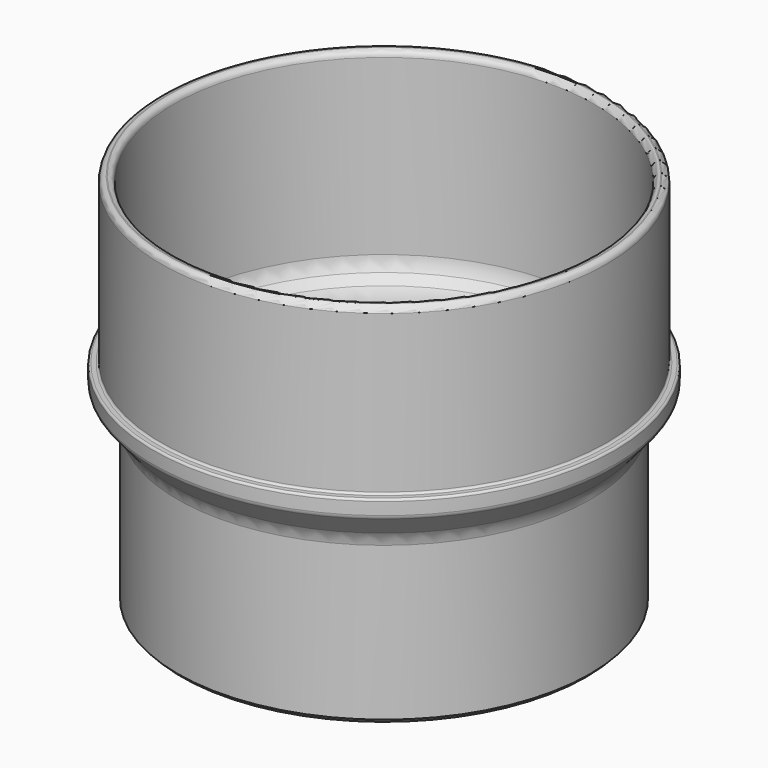
from build123d import *

# Parameters (mm, degrees)
F2_R    = 1.4
F3_R    = 0.5
F4_R    = 5
F5_SIZE = 1


with BuildPart() as f1:
    # F0 (on Front) → F1 (revolve)
    with BuildSketch(Plane.XZ):
        Polygon((47, 0), (50, 0), (50, 40), (56, 47.150522), (56, 51.150522), (54, 51.150522), (54, 91.150522), (51, 91.150522), (51, 45.858925), (47, 41.091911), align=None)
    revolve(axis=Axis((0, 0, 46.684548), (0, 0, 1)))

    # F2
    f2_edges = [f1.edges().sort_by_distance(p)[0] for p in [
        (-54, 0, 91.150522),
        (-51, 0, 91.150522),
        (-56, 0, 47.150522),
    ]]
    fillet(f2_edges, radius=F2_R)

    # F3
    f3_edges = [f1.edges().sort_by_distance(p)[0] for p in [
        (-56, 0, 51.150522),
        (-54, 0, 51.150522),
    ]]
    fillet(f3_edges, radius=F3_R)

    # F4
    f4_edges = [f1.edges().sort_by_distance(p)[0] for p in [
        (-50, 0, 40),
        (-47, 0, 41.091911),
        (-51, 0, 45.858925),
    ]]
    fillet(f4_edges, radius=F4_R)

    # F5
    f5_edges = [f1.edges().sort_by_distance(p)[0] for p in [
        (-50, 0, 0),
    ]]
    chamfer(f5_edges, length=F5_SIZE)


solid = f1.part
